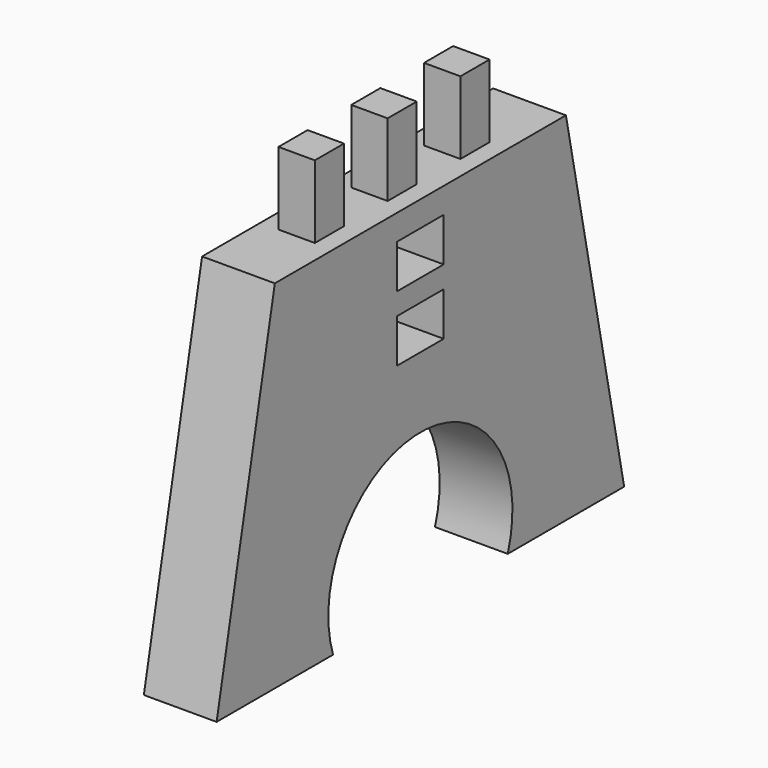
from build123d import *

# Parameters (mm, degrees)
F1_DEPTH = 12.7
F3_DEPTH = 12.7


with BuildPart() as f1:
    # F0 (on Right) → F1 (new body)
    with BuildSketch(Plane.YZ):
        with BuildLine():
            Line((-21.325396, 19.691155), (-34.025396, -42.525884))
            Line((-34.025396, -42.525884), (-8.625396, -42.525884))
            ThreePointArc((-8.625396, -42.525884), (10.424604, -16.093837), (29.474604, -42.525884))
            Line((29.474604, -42.525884), (54.874604, -42.525884))
            Line((54.874604, -42.525884), (42.174604, 19.691155))
            Line((42.174604, 19.691155), (-21.325396, 19.691155))
        make_face()
        Polygon((15.504604, -3.803845), (10.424604, -3.803845), (5.344604, -3.803845), (5.344604, 3.816155), (10.424604, 3.816155), (15.504604, 3.816155), align=None, mode=Mode.SUBTRACT)
        Polygon((15.504604, 7.626155), (10.424604, 7.626155), (5.344604, 7.626155), (5.344604, 15.246155), (10.424604, 15.246155), (15.504604, 15.246155), align=None, mode=Mode.SUBTRACT)
    extrude(amount=F1_DEPTH)

    # F2 (on face) → F3 (join)
    with BuildSketch(Plane.XY.offset(19.691155)):
        Polygon((9.525, 7.249604), (9.525, 10.424604), (9.525, 13.599604), (3.175, 13.599604), (3.175, 10.424604), (3.175, 7.249604), align=None)
        Polygon((3.175, -2.275396), (3.175, -5.450396), (3.175, -8.625396), (9.525, -8.625396), (9.525, -5.450396), (9.525, -2.275396), align=None)
        Polygon((3.175, 29.474604), (3.175, 26.299604), (3.175, 23.124604), (9.525, 23.124604), (9.525, 26.299604), (9.525, 29.474604), align=None)
    extrude(amount=F3_DEPTH)


solid = f1.part
